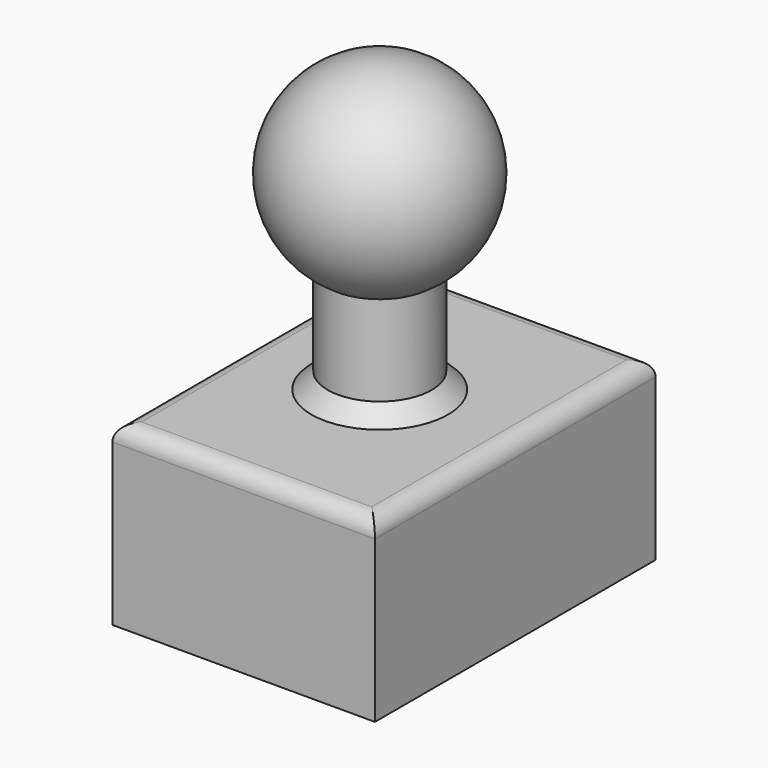
from build123d import *

# Parameters (mm, degrees)
F0_W     = 81.7349255085
F0_H     = 55.1976133138
F1_DEPTH = 54.61
F2_W     = 16.1877609789
F2_H     = 56.2591040507
F6_R     = 5.08
F7_SIZE  = 5.08


with BuildPart() as f1:
    # F0 (on Front) → F1 (new body, symmetric)
    with BuildSketch(Plane.XZ):
        with Locations((1.3268664479, 0.9260410443)):
            Rectangle(F0_W, F0_H)
    extrude(amount=F1_DEPTH, both=True)

    # F2 (on Front) → F3 (revolve)
    with BuildSketch(Plane.XZ):
        with Locations((-8.0938804895, 41.5281313471)):
            Rectangle(F2_W, F2_H)
    revolve(axis=Axis((0, 0, 41.5281313471), (0, 0, -1)))

    # F4 (on Front) → F5 (revolve)
    with BuildSketch(Plane.XZ):
        with BuildLine():
            Line((0, 57.0264922878), (0, 118.6706257561))
            ThreePointArc((0, 118.6706257561), (-30.8220667341, 87.8485590219), (0, 57.0264922878))
        make_face()
    revolve(axis=Axis((0, 0, 87.8485590219), (0, 0, -1)))

    # F6
    f6_edges = [f1.edges().sort_by_distance(p)[0] for p in [
        (1.326866, -54.61, 28.524848),
        (42.194329, 0, 28.524848),
        (1.326866, 54.61, 28.524848),
        (-39.540596, 0, 28.524848),
    ]]
    fillet(f6_edges, radius=F6_R)

    # F7
    f7_edges = [f1.edges().sort_by_distance(p)[0] for p in [
        (16.187761, 0, 28.524848),
    ]]
    chamfer(f7_edges, length=F7_SIZE)


solid = f1.part
